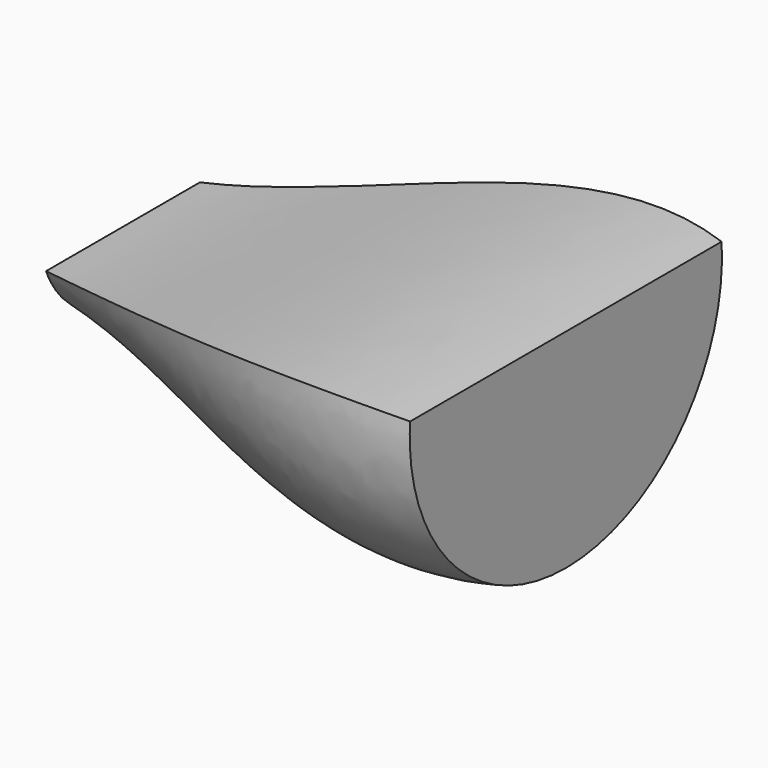
from build123d import *


with BuildPart() as part:
    # Sketch002 (on Vertex5 of Sketch) → Loft section 0
    with BuildSketch(Plane(origin=(99.757458, 0, 0), x_dir=(0, -1, 0), z_dir=(-1, 0, 0))):
        with BuildLine():
            ThreePointArc((-65.947317, 28.009382), (0, -42.498769), (65.947317, 28.009382))
            Line((-65.947317, 28.009382), (65.947317, 28.009382))
        make_face()
    # Sketch001 (on Vertex4 of Sketch) → Loft section 1
    with BuildSketch(Plane(origin=(49.757458, 0, 0), x_dir=(0, -1, 0), z_dir=(-1, 0, 0))):
        with BuildLine():
            ThreePointArc((-65.947317, 28.009382), (0, -42.498769), (65.947317, 28.009382))
            Line((-65.947317, 28.009382), (65.947317, 28.009382))
        make_face()
    # Sketch003 (on Vertex3 of Sketch) → Loft section 2
    with BuildSketch(Plane(origin=(-0.242542, 0, 0), x_dir=(0, -1, 0), z_dir=(-1, 0, 0))):
        with BuildLine():
            ThreePointArc((-50.022919, 18.920422), (0, -26.644902), (50.022919, 18.920422))
            Line((-50.022919, 18.920422), (50.022919, 18.920422))
        make_face()
    # Sketch004 (on Vertex2 of Sketch) → Loft section 3
    with BuildSketch(Plane(origin=(-50.242542, 0, 0), x_dir=(0, -1, 0), z_dir=(-1, 0, 0))):
        with BuildLine():
            ThreePointArc((-32.543495, 10.482072), (0, -11.490346), (32.543495, 10.482072))
            Line((-32.543495, 10.482072), (32.543495, 10.482072))
        make_face()
    loft()


solid = part.part
